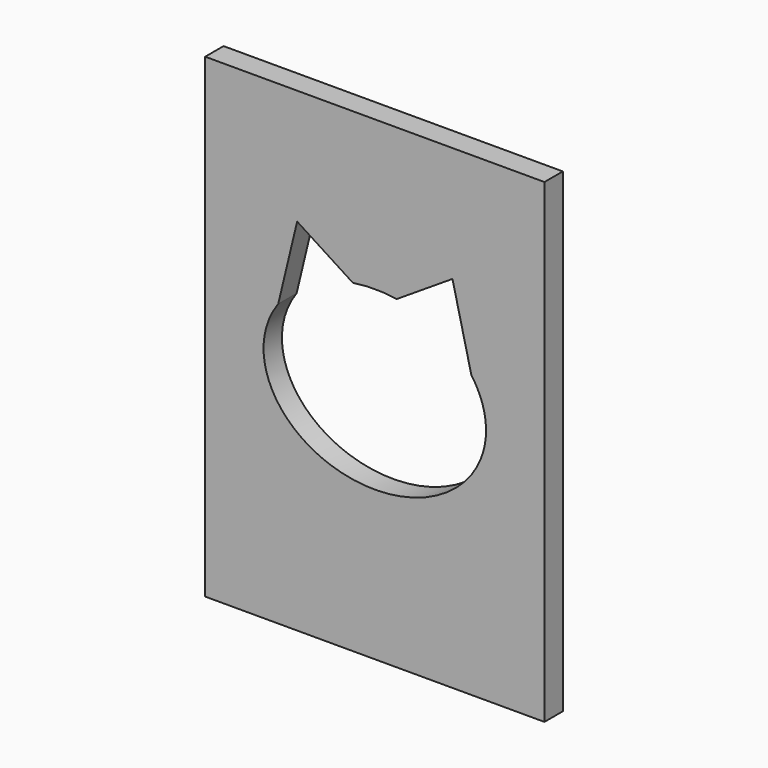
from build123d import *

# Parameters (mm, degrees)
F1_W     = 115.3013855219
F1_H     = 161.5304499865
F0_DEPTH = 7.8085362911


with BuildPart() as f0:
    # F1 (on Front) → F0 (new body)
    with BuildSketch(Plane.XZ):
        Rectangle(F1_W, F1_H)
        with BuildLine():
            add(Edge.make_bspline(
                [(-32.8142790405, 14.9057844408), (-65.2189156405, -30), (0, -30), (65.2189156405, -30), (32.8142790405, 14.9057844408)],
                knots=[2.6216164562, 2.6216164562, 2.6216164562, 4.7123889804, 4.7123889804, 6.8031615046, 6.8031615046, 6.8031615046], degree=2, weights=[1, 0.5015678013, 1, 0.5015678013, 1]))
            Line((-32.8142790405, 14.9057844408), (-26.3910301017, 41.6110414867))
            Line((-26.3910301017, 41.6110414867), (-7.4293772614, 29.4152176808))
            add(Edge.make_bspline(
                [(7.4293772614, 29.4152176808), (0, 30.5964079466), (-7.4293772614, 29.4152176808)],
                knots=[1.3730267484, 1.3730267484, 1.3730267484, 1.7685659052, 1.7685659052, 1.7685659052], degree=2, weights=[1, 0.980507256, 1]))
            Line((7.4293772614, 29.4152176808), (26.3910301017, 41.6110414867))
            Line((26.3910301017, 41.6110414867), (32.8142790405, 14.9057844408))
        make_face(mode=Mode.SUBTRACT)
    extrude(amount=F0_DEPTH)


solid = f0.part
